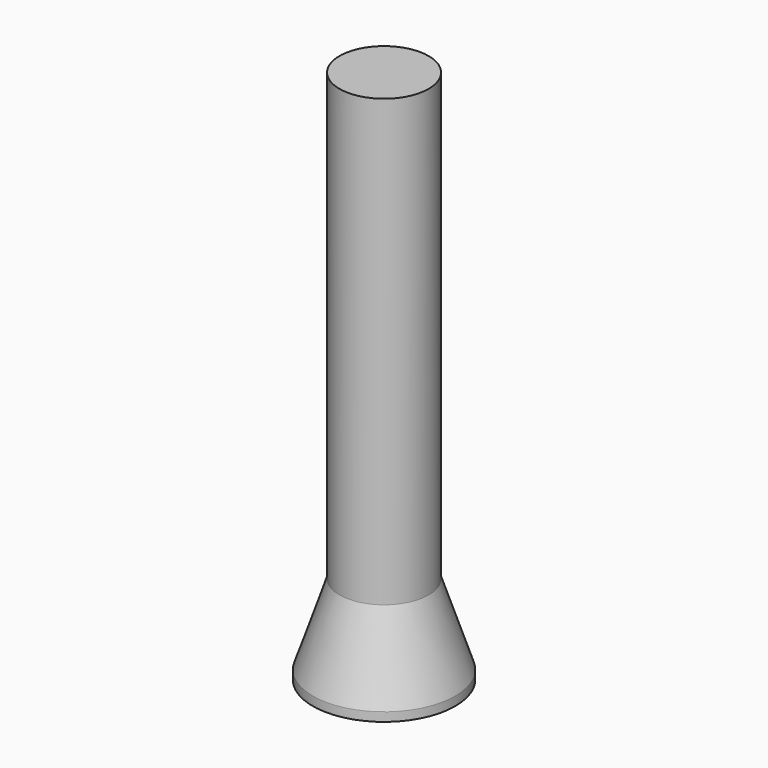
from build123d import *

# Parameters (mm, degrees)
F0_R     = 4
F1_DEPTH = 5
F2_R     = 2.5
F3_DEPTH = 25
F6_W     = 1.75
F6_H     = 1.5
F6_W_2   = 1.5
F6_H_2   = 1.75
F7_DEPTH = 3


with BuildPart() as f1:
    # F0 (on Top) → F1 (new body)
    with BuildSketch(Plane.XY):
        Circle(F0_R)
    extrude(amount=F1_DEPTH)

    # F2 (on face) → F3 (join)
    with BuildSketch(Plane.XY.offset(5)):
        Circle(F2_R)
    extrude(amount=F3_DEPTH)

    # F4 (on Front) → F5 (revolve, cut)
    with BuildSketch(Plane.XZ):
        Polygon((-4, 0.5), (-2.5, 5), (-4, 5), align=None)
    revolve(axis=Axis((0, 0, 2.5), (0, 0, -1)), mode=Mode.SUBTRACT)

    # F6 (on face) → F7 (cut)
    with BuildSketch(Plane(origin=(0, 0, 0), x_dir=(1, 0, 0), z_dir=(0, 0, -1))):
        with Locations((1.625, 0)):
            Rectangle(F6_W, F6_H)
        Rectangle(F6_W_2, F6_H)
        with Locations((0, 1.625)):
            Rectangle(F6_W_2, F6_H_2)
        with Locations((-1.625, 0)):
            Rectangle(F6_W, F6_H)
        with Locations((0, -1.625)):
            Rectangle(F6_W_2, F6_H_2)
    extrude(amount=-F7_DEPTH, mode=Mode.SUBTRACT)


solid = f1.part
